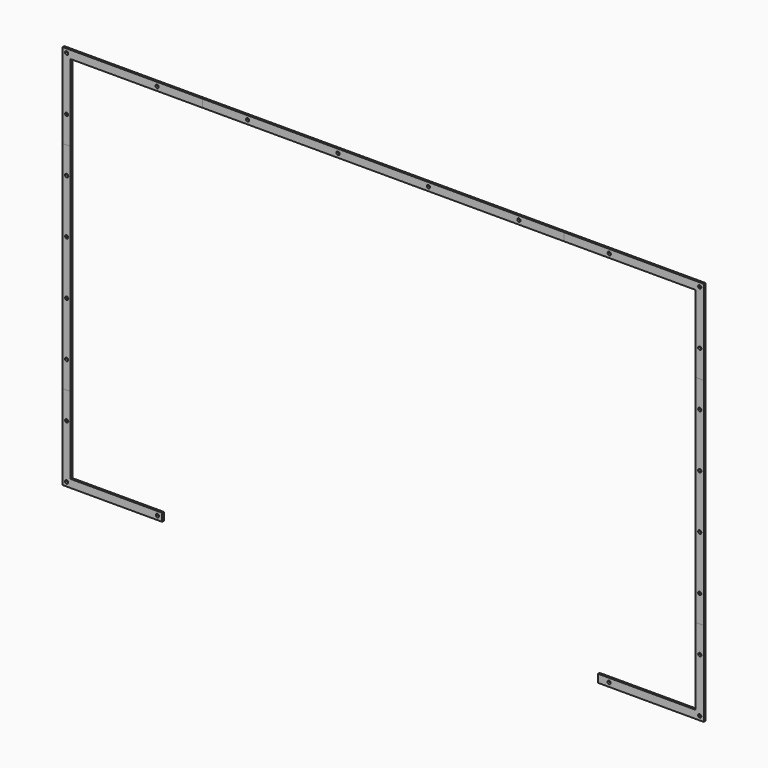
from build123d import *

# Parameters (mm, degrees)
F0_R     = 2.54
F1_DEPTH = 1.5875
F2_DEPTH = 1.5875
F3_DEPTH = 1.5875
F0_W     = 12.7
F0_H     = 341.992858
F4_DEPTH = 1.5875
F5_DEPTH = 1.5875
F6_DEPTH = 1.5875
F7_DEPTH = 1.5875


with BuildPart() as f1:
    # F0 (on Front) → F1 (new body, symmetric)
    with BuildSketch(Plane.XZ):
        with BuildLine():
            Line((-495.3, 170.996429), (-495.3, 292.89375))
            Line((-495.3, 292.89375), (-499.853949, 297.447699))
            ThreePointArc((-499.853949, 297.447699), (-503.446051, 297.447699), (-503.446051, 301.039801))
            Line((-503.446051, 301.039801), (-508, 305.59375))
            Line((-508, 305.59375), (-508, 170.996429))
            Line((-508, 170.996429), (-501.65, 170.996429))
            Line((-501.65, 170.996429), (-495.3, 170.996429))
        make_face()
        with BuildLine():
            ThreePointArc((-499.11, 213.745536), (-499.853949, 211.949484), (-501.65, 211.205536))
            ThreePointArc((-501.65, 211.205536), (-503.446051, 215.541587), (-499.11, 213.745536))
        make_face(mode=Mode.SUBTRACT)
        with BuildLine():
            Line((-495.3, 292.89375), (-286.657143, 292.89375))
            Line((-286.657143, 292.89375), (-286.657143, 299.24375))
            Line((-286.657143, 299.24375), (-286.657143, 305.59375))
            Line((-286.657143, 305.59375), (-508, 305.59375))
            Line((-508, 305.59375), (-503.446051, 301.039801))
            ThreePointArc((-503.446051, 301.039801), (-500.677984, 301.590404), (-499.11, 299.24375))
            ThreePointArc((-499.11, 299.24375), (-499.303346, 298.271734), (-499.853949, 297.447699))
            Line((-499.853949, 297.447699), (-495.3, 292.89375))
        make_face()
        with Locations((-358.321429, 299.24375)):
            Circle(F0_R, mode=Mode.SUBTRACT)
    extrude(amount=F1_DEPTH, both=True)


with BuildPart() as f2:
    # F0 (on Front) → F2 (new body, symmetric)
    with BuildSketch(Plane.XZ):
        Polygon((-286.657143, 292.89375), (286.657143, 292.89375), (286.657143, 305.59375), (-286.657143, 305.59375), (-286.657143, 299.24375), align=None)
        with BuildLine():
            ThreePointArc((-212.452857, 299.24375), (-214.992857, 296.70375), (-217.532857, 299.24375))
            ThreePointArc((-217.532857, 299.24375), (-214.992857, 301.78375), (-212.452857, 299.24375))
        make_face(mode=Mode.SUBTRACT)
        with Locations((-71.664286, 299.24375)):
            Circle(F0_R, mode=Mode.SUBTRACT)
        with Locations((71.664286, 299.24375)):
            Circle(F0_R, mode=Mode.SUBTRACT)
        with Locations((214.992857, 299.24375)):
            Circle(F0_R, mode=Mode.SUBTRACT)
    extrude(amount=F2_DEPTH, both=True)


with BuildPart() as f3:
    # F0 (on Front) → F3 (new body, symmetric)
    with BuildSketch(Plane.XZ):
        with BuildLine():
            Line((286.657143, 292.89375), (495.3, 292.89375))
            Line((495.3, 292.89375), (499.853949, 297.447699))
            ThreePointArc((499.853949, 297.447699), (499.853949, 301.039801), (503.446051, 301.039801))
            Line((503.446051, 301.039801), (508, 305.59375))
            Line((508, 305.59375), (286.657143, 305.59375))
            Line((286.657143, 305.59375), (286.657143, 292.89375))
        make_face()
        with Locations((358.321429, 299.24375)):
            Circle(F0_R, mode=Mode.SUBTRACT)
        with BuildLine():
            Line((499.853949, 297.447699), (495.3, 292.89375))
            Line((495.3, 292.89375), (495.3, 170.996429))
            Line((495.3, 170.996429), (508, 170.996429))
            Line((508, 170.996429), (508, 305.59375))
            Line((508, 305.59375), (503.446051, 301.039801))
            ThreePointArc((503.446051, 301.039801), (503.996654, 300.215766), (504.19, 299.24375))
            ThreePointArc((504.19, 299.24375), (502.622016, 296.897096), (499.853949, 297.447699))
        make_face()
        with Locations((501.65, 213.745536)):
            Circle(F0_R, mode=Mode.SUBTRACT)
    extrude(amount=F3_DEPTH, both=True)


with BuildPart() as f4:
    # F0 (on Front) → F4 (new body, symmetric)
    with BuildSketch(Plane.XZ):
        with Locations((501.65, 0)):
            Rectangle(F0_W, F0_H)
        with Locations((501.65, -128.247321)):
            Circle(F0_R, mode=Mode.SUBTRACT)
        with Locations((501.65, -42.749107)):
            Circle(F0_R, mode=Mode.SUBTRACT)
        with Locations((501.65, 42.749107)):
            Circle(F0_R, mode=Mode.SUBTRACT)
        with Locations((501.65, 128.247321)):
            Circle(F0_R, mode=Mode.SUBTRACT)
    extrude(amount=F4_DEPTH, both=True)


with BuildPart() as f5:
    # F0 (on Front) → F5 (new body, symmetric)
    with BuildSketch(Plane.XZ):
        with BuildLine():
            Line((508, -170.996429), (495.3, -170.996429))
            Line((495.3, -170.996429), (495.3, -292.89375))
            Line((495.3, -292.89375), (499.853949, -297.447699))
            ThreePointArc((499.853949, -297.447699), (502.622016, -296.897096), (504.19, -299.24375))
            ThreePointArc((504.19, -299.24375), (503.996654, -300.215766), (503.446051, -301.039801))
            Line((503.446051, -301.039801), (508, -305.59375))
            Line((508, -305.59375), (508, -170.996429))
        make_face()
        with Locations((501.65, -213.745536)):
            Circle(F0_R, mode=Mode.SUBTRACT)
        with BuildLine():
            Line((499.853949, -297.447699), (495.3, -292.89375))
            Line((495.3, -292.89375), (340.29904, -292.89375))
            Line((340.29904, -292.89375), (340.29904, -305.59375))
            Line((340.29904, -305.59375), (508, -305.59375))
            Line((508, -305.59375), (503.446051, -301.039801))
            ThreePointArc((503.446051, -301.039801), (499.853949, -301.039801), (499.853949, -297.447699))
        make_face()
        with Locations((357.84, -299.24375)):
            Circle(F0_R, mode=Mode.SUBTRACT)
    extrude(amount=F5_DEPTH, both=True)


with BuildPart() as f6:
    # F0 (on Front) → F6 (new body, symmetric)
    with BuildSketch(Plane.XZ):
        with BuildLine():
            Line((-350.29902, -305.59375), (-350.29902, -292.89375))
            Line((-350.29902, -292.89375), (-495.3, -292.89375))
            Line((-495.3, -292.89375), (-499.853949, -297.447699))
            ThreePointArc((-499.853949, -297.447699), (-499.303346, -298.271734), (-499.11, -299.24375))
            ThreePointArc((-499.11, -299.24375), (-500.677984, -301.590404), (-503.446051, -301.039801))
            Line((-503.446051, -301.039801), (-508, -305.59375))
            Line((-508, -305.59375), (-350.29902, -305.59375))
        make_face()
        with Locations((-357.84, -299.24375)):
            Circle(F0_R, mode=Mode.SUBTRACT)
        with BuildLine():
            Line((-495.3, -292.89375), (-495.3, -170.996429))
            Line((-495.3, -170.996429), (-508, -170.996429))
            Line((-508, -170.996429), (-508, -305.59375))
            Line((-508, -305.59375), (-503.446051, -301.039801))
            ThreePointArc((-503.446051, -301.039801), (-503.446051, -297.447699), (-499.853949, -297.447699))
            Line((-499.853949, -297.447699), (-495.3, -292.89375))
        make_face()
        with Locations((-501.65, -213.745536)):
            Circle(F0_R, mode=Mode.SUBTRACT)
    extrude(amount=F6_DEPTH, both=True)


with BuildPart() as f7:
    # F0 (on Front) → F7 (new body, symmetric)
    with BuildSketch(Plane.XZ):
        Polygon((-495.3, -170.996429), (-495.3, 170.996429), (-501.65, 170.996429), (-508, 170.996429), (-508, -170.996429), align=None)
        with Locations((-501.65, -128.247321)):
            Circle(F0_R, mode=Mode.SUBTRACT)
        with Locations((-501.65, -42.749107)):
            Circle(F0_R, mode=Mode.SUBTRACT)
        with Locations((-501.65, 42.749107)):
            Circle(F0_R, mode=Mode.SUBTRACT)
        with BuildLine():
            ThreePointArc((-499.11, 128.247321), (-503.446051, 126.45127), (-501.65, 130.787321))
            ThreePointArc((-501.65, 130.787321), (-499.853949, 130.043373), (-499.11, 128.247321))
        make_face(mode=Mode.SUBTRACT)
    extrude(amount=F7_DEPTH, both=True)


solid = Compound([f1.part, f2.part, f3.part, f4.part, f5.part, f6.part, f7.part])
